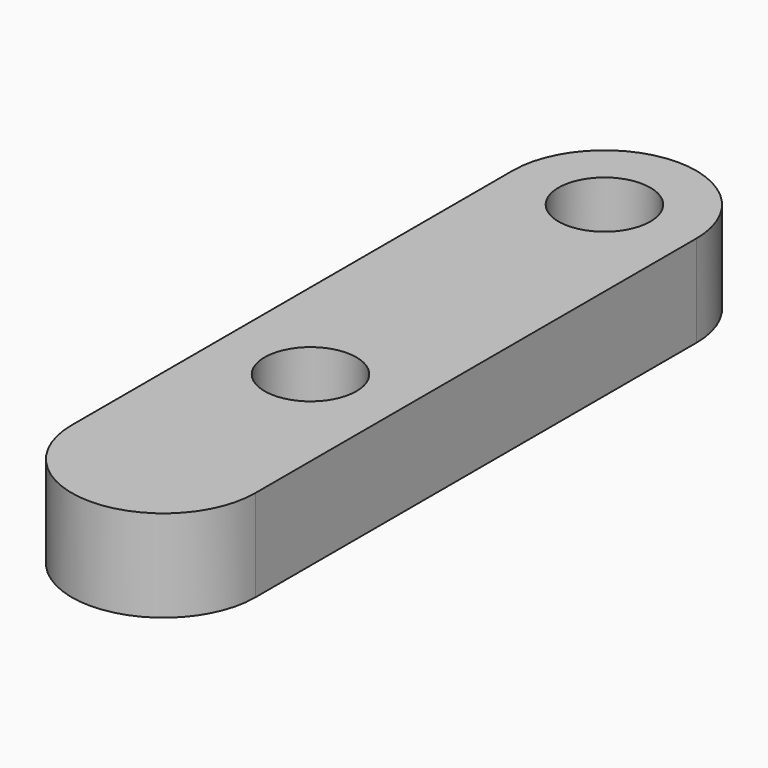
from build123d import *

# Parameters (mm, degrees)
F1_DEPTH = 63.5
F2_R     = 31.75
F3_DEPTH = 63.5


with BuildPart() as f1:
    # F0 (on Top) → F1 (new body)
    with BuildSketch(Plane.XY):
        with BuildLine():
            ThreePointArc((-63.5, -190.5), (0, -254), (63.5, -190.5))
            Line((63.5, -190.5), (-63.5, -190.5))
        make_face()
        with BuildLine():
            ThreePointArc((-63.5, -190.5), (0, -127), (63.5, -190.5))
            Line((63.5, -190.5), (63.5, 190.5))
            ThreePointArc((63.5, 190.5), (0, 127), (-63.5, 190.5))
            Line((-63.5, 190.5), (-63.5, -190.5))
        make_face()
        with BuildLine():
            Line((-63.5, -190.5), (63.5, -190.5))
            ThreePointArc((63.5, -190.5), (0, -127), (-63.5, -190.5))
        make_face()
        with BuildLine():
            ThreePointArc((-63.5, 190.5), (0, 127), (63.5, 190.5))
            Line((63.5, 190.5), (-63.5, 190.5))
        make_face()
        with BuildLine():
            Line((-63.5, 190.5), (63.5, 190.5))
            ThreePointArc((63.5, 190.5), (0, 254), (-63.5, 190.5))
        make_face()
    extrude(amount=F1_DEPTH)

    # F2 (on Top) → F3 (cut, through all)
    with BuildSketch(Plane.XY):
        with Locations((0, 190.5)):
            Circle(F2_R)
        with Locations((0, -63.5)):
            Circle(F2_R)
    extrude(amount=F3_DEPTH, mode=Mode.SUBTRACT)


solid = f1.part
